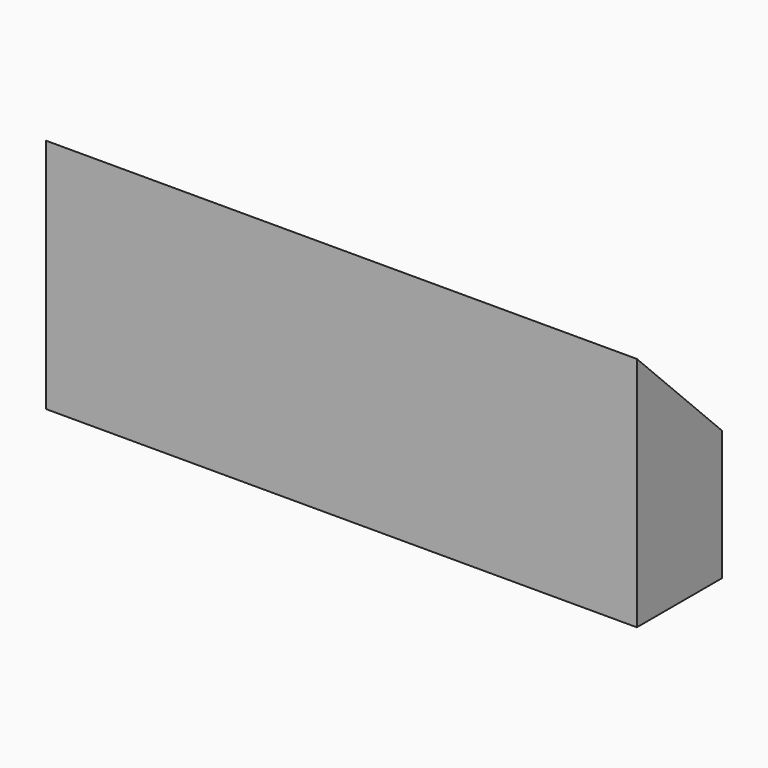
from build123d import *

# Parameters (mm, degrees)
PAD_DEPTH = 100


with BuildPart() as part:
    # Sketch → Pad (new body)
    with BuildSketch(Plane.YZ):
        Polygon((0, 0), (-18, 0), (-18, 40), (0, 22), align=None)
    extrude(amount=PAD_DEPTH)


solid = part.part
